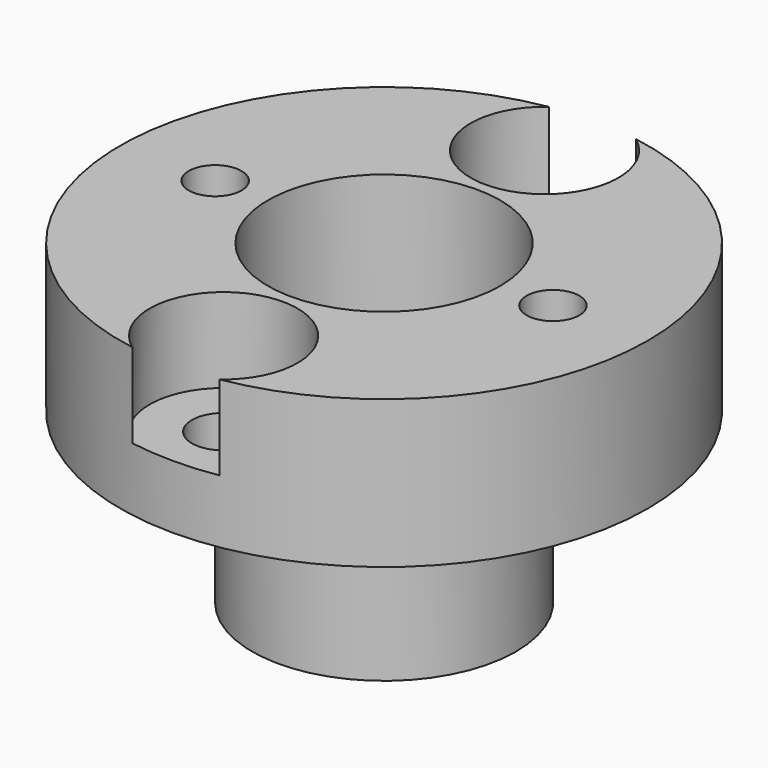
from build123d import *

# Parameters (mm, degrees)
F0_R          = 12.5
F1_DEPTH      = 7
F2_R          = 1.5
F3_DEPTH      = 7.001
F4_R          = 3.5
F5_DEPTH      = 4
F6_R          = 6.25
F6_R_2        = 5
F7_DEPTH      = 8
F8_R          = 5.5
F9_DEPTH      = 7.001
F9_DEPTH_BACK = 8.001
F10_R         = 1.25
F11_DEPTH     = 15.001


with BuildPart() as f1:
    # F0 (on Top) → F1 (new body)
    with BuildSketch(Plane.XY):
        Circle(F0_R)
    extrude(amount=F1_DEPTH)

    # F2 (on face) → F3 (cut, through all)
    with BuildSketch(Plane.XY.offset(7)):
        with Locations((0, 9.5)):
            Circle(F2_R)
        with Locations((0, -9.5)):
            Circle(F2_R)
    extrude(amount=-F3_DEPTH, mode=Mode.SUBTRACT)

    # F4 (on face) → F5 (cut, through all)
    with BuildSketch(Plane.XY.offset(7)):
        with Locations((0, 9.5)):
            Circle(F4_R)
        with Locations((0, -9.5)):
            Circle(F4_R)
    extrude(amount=-F5_DEPTH, mode=Mode.SUBTRACT)

    # F6 (on face) → F7 (join)
    with BuildSketch(Plane(origin=(0, 0, 0), x_dir=(1, 0, 0), z_dir=(0, 0, -1))):
        Circle(F6_R)
        Circle(F6_R_2, mode=Mode.SUBTRACT)
    extrude(amount=F7_DEPTH)

    # F8 (on face) → F9 (cut, two sides)
    with BuildSketch(Plane(origin=(0, 0, 0), x_dir=(1, 0, 0), z_dir=(0, 0, -1))) as f9_sk:
        Circle(F8_R)
    extrude(amount=-F9_DEPTH, mode=Mode.SUBTRACT)
    extrude(f9_sk.sketch, amount=F9_DEPTH_BACK, mode=Mode.SUBTRACT)

    # F10 (on face) → F11 (cut, through all)
    with BuildSketch(Plane.XY.offset(7)):
        with Locations((8, 0)):
            Circle(F10_R)
        with Locations((-8, 0)):
            Circle(F10_R)
    extrude(amount=-F11_DEPTH, mode=Mode.SUBTRACT)


solid = f1.part
